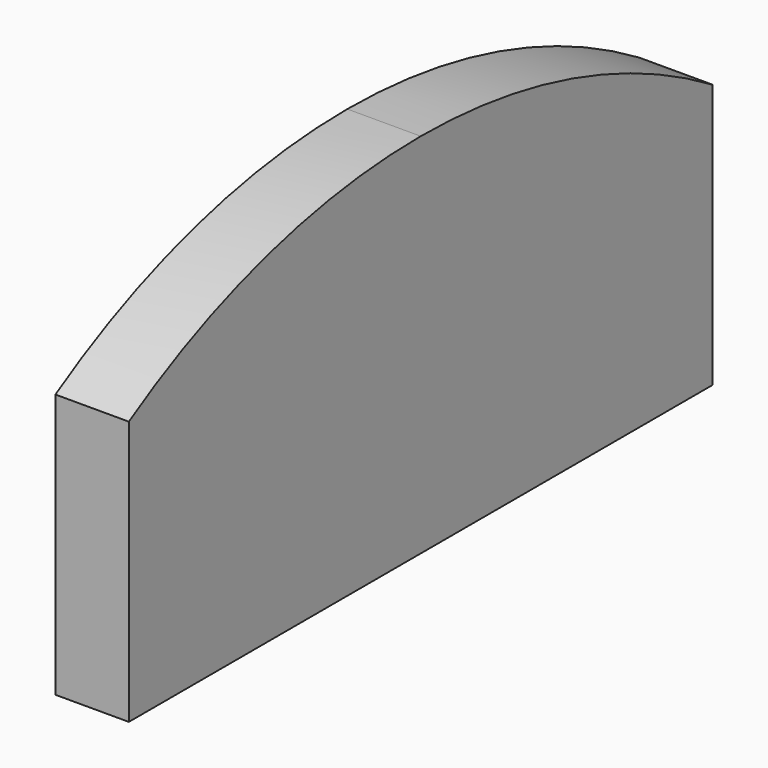
from build123d import *

# Parameters (mm, degrees)
F1_DEPTH = 3


with BuildPart() as f1:
    # F0 (on Right) → F1 (new body)
    with BuildSketch(Plane.YZ):
        with BuildLine():
            Line((-14.9, 10.794855), (-14.9, 0))
            Line((-14.9, 0), (14.9, 0))
            Line((14.9, 0), (14.9, 10.794855))
            ThreePointArc((14.9, 10.794855), (7.741015, 13.928574), (0, 15))
            ThreePointArc((0, 15), (-7.741015, 13.928574), (-14.9, 10.794855))
        make_face()
    extrude(amount=F1_DEPTH)


solid = f1.part
